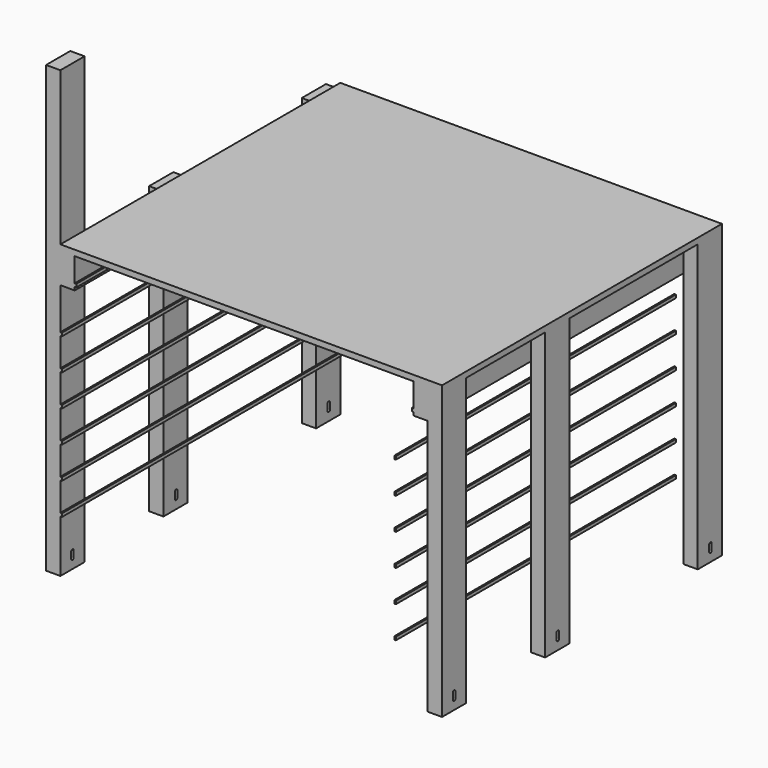
from build123d import *

# Parameters (mm, degrees)
F0_W      = 1200
F0_H      = 1100
F2_DEPTH  = 18
F3_W      = 45
F3_H      = 95
F4_DEPTH  = 900
F5_DEPTH  = 500
F1_W      = 1065
F1_H      = 45
F6_DEPTH  = 95
F8_DEPTH  = 2000
F9_W      = 5
F9_H      = 10
F10_DEPTH = 500
F11_W     = 5
F11_H     = 10
F12_DEPTH = 500
F13_W     = 5
F13_H     = 10
F14_DEPTH = 1100


with BuildPart() as f2:
    # F0 (on Top) → F2 (new body)
    with BuildSketch(Plane.XY):
        Rectangle(F0_W, F0_H)
    extrude(amount=F2_DEPTH)

    # F3 (on Top) → F4 (join)
    with BuildSketch(Plane.XY):
        with Locations((-622.5, 502.5)):
            Rectangle(F3_W, F3_H)
        with Locations((-622.5, -97.5)):
            Rectangle(F3_W, F3_H)
        with Locations((-622.5, -502.5)):
            Rectangle(F3_W, F3_H)
        with Locations((577.5, -502.5)):
            Rectangle(F3_W, F3_H)
        with Locations((577.5, -97.5)):
            Rectangle(F3_W, F3_H)
        with Locations((577.5, 502.5)):
            Rectangle(F3_W, F3_H)
    extrude(amount=-F4_DEPTH)

    # F5 (add): a face of the model
    f5_faces = [f2.faces().sort_by_distance(p)[0] for p in [
        (-622.5, -502.5, 0),
    ]]
    extrude(f5_faces, amount=F5_DEPTH)

    # F1 (on Top) → F6 (join)
    with BuildSketch(Plane.XY):
        Polygon((-555, 550), (-600, 550), (-600, -550), (-555, -550), (-555, -27.5), (-555, 17.5), (-555, 505), align=None)
        with Locations((-22.5, 527.5)):
            Rectangle(F1_W, F1_H)
        with Locations((-22.5, -5)):
            Rectangle(F1_W, F1_H)
        Polygon((555, 550), (510, 550), (510, 505), (510, 17.5), (510, -27.5), (510, -550), (555, -550), align=None)
    extrude(amount=-F6_DEPTH)

    # F7 (on face) → F8 (cut)
    with BuildSketch(Plane(origin=(-645, 0, 0), x_dir=(0, -1, 0), z_dir=(-1, 0, 0))):
        with BuildLine():
            ThreePointArc((507.5, -870), (502.5, -865), (497.5, -870))
            Line((497.5, -870), (507.5, -870))
        make_face()
        with BuildLine():
            Line((497.5, -850), (497.5, -870))
            ThreePointArc((497.5, -870), (502.5, -865), (507.5, -870))
            Line((507.5, -870), (507.5, -850))
            ThreePointArc((507.5, -850), (502.5, -855), (497.5, -850))
        make_face()
        with BuildLine():
            Line((507.5, -870), (497.5, -870))
            ThreePointArc((497.5, -870), (502.5, -875), (507.5, -870))
        make_face()
        with BuildLine():
            ThreePointArc((507.5, -850), (502.5, -845), (497.5, -850))
            Line((497.5, -850), (507.5, -850))
        make_face()
        with BuildLine():
            Line((507.5, -850), (497.5, -850))
            ThreePointArc((497.5, -850), (502.5, -855), (507.5, -850))
        make_face()
        with BuildLine():
            ThreePointArc((100, -850), (95, -845), (90, -850))
            Line((90, -850), (100, -850))
        make_face()
        with BuildLine():
            ThreePointArc((100, -850), (95, -855), (90, -850))
            Line((90, -850), (90, -870))
            ThreePointArc((90, -870), (95, -865), (100, -870))
            Line((100, -870), (100, -850))
        make_face()
        with BuildLine():
            Line((100, -850), (90, -850))
            ThreePointArc((90, -850), (95, -855), (100, -850))
        make_face()
        with BuildLine():
            ThreePointArc((100, -870), (95, -865), (90, -870))
            Line((90, -870), (100, -870))
        make_face()
        with BuildLine():
            Line((100, -870), (90, -870))
            ThreePointArc((90, -870), (95, -875), (100, -870))
        make_face()
        with BuildLine():
            ThreePointArc((-500, -850), (-505, -845), (-510, -850))
            Line((-510, -850), (-500, -850))
        make_face()
        with BuildLine():
            ThreePointArc((-500, -850), (-505, -855), (-510, -850))
            Line((-510, -850), (-510, -870))
            ThreePointArc((-510, -870), (-505, -865), (-500, -870))
            Line((-500, -870), (-500, -850))
        make_face()
        with BuildLine():
            Line((-500, -850), (-510, -850))
            ThreePointArc((-510, -850), (-505, -855), (-500, -850))
        make_face()
        with BuildLine():
            ThreePointArc((-500, -870), (-505, -865), (-510, -870))
            Line((-510, -870), (-500, -870))
        make_face()
        with BuildLine():
            Line((-500, -870), (-510, -870))
            ThreePointArc((-510, -870), (-505, -875), (-500, -870))
        make_face()
    extrude(amount=-F8_DEPTH, mode=Mode.SUBTRACT)

    # F9 (on face) → F10 (join)
    with BuildSketch(Plane.XZ.offset(550)):
        with Locations((-552.5, -80)):
            Rectangle(F9_W, F9_H)
    extrude(amount=-F10_DEPTH)

    # F11 (on face) → F12 (join)
    with BuildSketch(Plane.XZ.offset(550)):
        with Locations((507.5, -80)):
            Rectangle(F11_W, F11_H)
    extrude(amount=-F12_DEPTH)

    # F13 (on face) → F14 (join)
    with BuildSketch(Plane.XZ.offset(550)):
        with Locations((-597.5, -230)):
            Rectangle(F13_W, F13_H)
        with Locations((-597.5, -330)):
            Rectangle(F13_W, F13_H)
        with Locations((-597.5, -430)):
            Rectangle(F13_W, F13_H)
        with Locations((-597.5, -530)):
            Rectangle(F13_W, F13_H)
        with Locations((-597.5, -630)):
            Rectangle(F13_W, F13_H)
        with Locations((-597.5, -730)):
            Rectangle(F13_W, F13_H)
    extrude(amount=-F14_DEPTH)


with BuildPart() as f14:
    # F13 (on face) → F14, piece 2 (new body)
    with BuildSketch(Plane.XZ.offset(550)):
        with Locations((452.5, -230)):
            Rectangle(F13_W, F13_H)
    extrude(amount=-F14_DEPTH)


with BuildPart() as f14b:
    # F13 (on face) → F14, piece 3 (new body)
    with BuildSketch(Plane.XZ.offset(550)):
        with Locations((452.5, -330)):
            Rectangle(F13_W, F13_H)
    extrude(amount=-F14_DEPTH)


with BuildPart() as f14c:
    # F13 (on face) → F14, piece 4 (new body)
    with BuildSketch(Plane.XZ.offset(550)):
        with Locations((452.5, -430)):
            Rectangle(F13_W, F13_H)
    extrude(amount=-F14_DEPTH)


with BuildPart() as f14d:
    # F13 (on face) → F14, piece 5 (new body)
    with BuildSketch(Plane.XZ.offset(550)):
        with Locations((452.5, -530)):
            Rectangle(F13_W, F13_H)
    extrude(amount=-F14_DEPTH)


with BuildPart() as f14e:
    # F13 (on face) → F14, piece 6 (new body)
    with BuildSketch(Plane.XZ.offset(550)):
        with Locations((452.5, -630)):
            Rectangle(F13_W, F13_H)
    extrude(amount=-F14_DEPTH)


with BuildPart() as f14f:
    # F13 (on face) → F14, piece 7 (new body)
    with BuildSketch(Plane.XZ.offset(550)):
        with Locations((452.5, -730)):
            Rectangle(F13_W, F13_H)
    extrude(amount=-F14_DEPTH)


solid = Compound([f2.part, f14.part, f14b.part, f14c.part, f14d.part, f14e.part, f14f.part])
